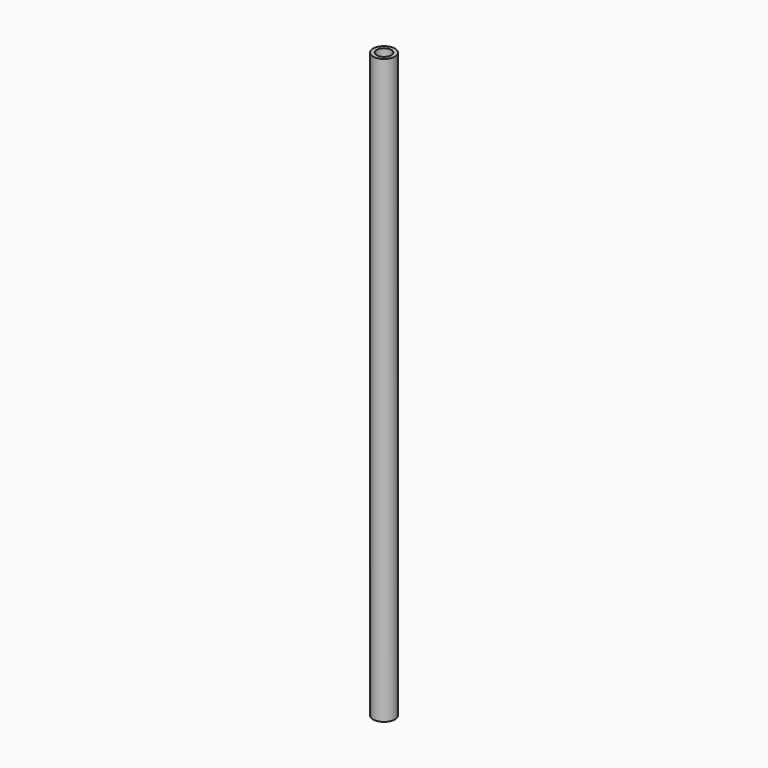
from build123d import *

# Parameters (mm, degrees)
SKETCH_R   = 1.5
SKETCH_R_2 = 1
PAD_DEPTH  = 80


with BuildPart() as part:
    # Sketch → Pad (new body)
    with BuildSketch(Plane(origin=(50, 0, 0), x_dir=(1, 0, 0), z_dir=(0, 0, 1))):
        Circle(SKETCH_R)
        Circle(SKETCH_R_2, mode=Mode.SUBTRACT)
    extrude(amount=PAD_DEPTH)


solid = part.part
